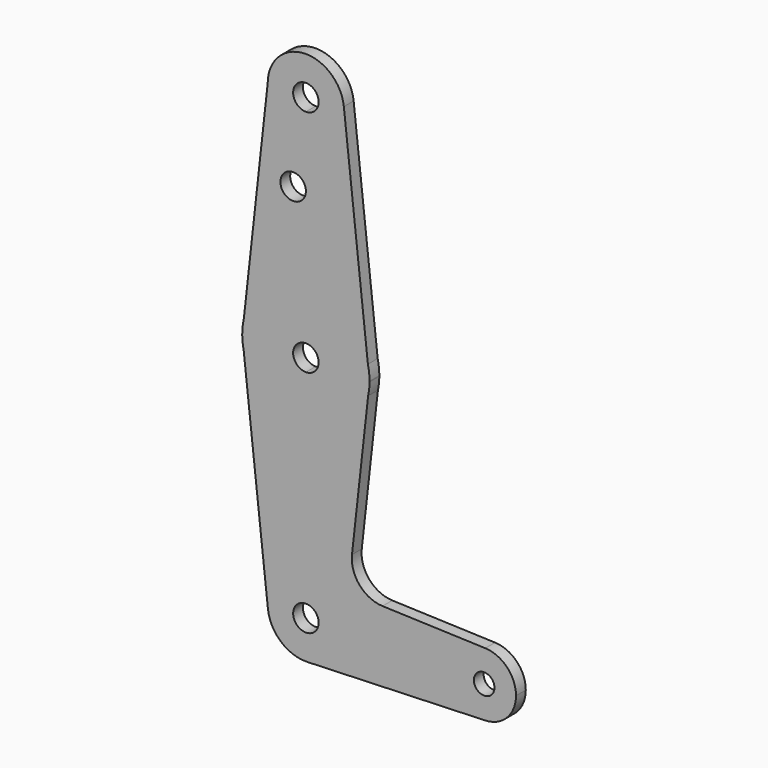
from build123d import *

# Parameters (mm, degrees)
F0_R     = 3.175
F1_DEPTH = 3.048


with BuildPart() as f1:
    # F0 (on Front) → F1 (new body)
    with BuildSketch(Plane.XZ):
        with BuildLine():
            ThreePointArc((-9.525, 114.3), (-6.7351920908, 107.5648079092), (0, 104.775))
            ThreePointArc((0, 104.775), (6.7351920908, 107.5648079092), (9.525, 114.3))
            ThreePointArc((9.525, 114.3), (9.5107674928, 114.8205061938), (9.4681125044, 115.3394568793))
            ThreePointArc((9.4681125044, 115.3394568793), (-0.5205061938, 123.8107674928), (-9.525, 114.3))
        make_face()
        with BuildLine():
            ThreePointArc((3.175, 114.3), (2.2450640303, 112.0549359697), (0, 111.125))
            ThreePointArc((0, 111.125), (-2.2450640303, 116.5450640303), (3.175, 114.3))
        make_face(mode=Mode.SUBTRACT)
        with BuildLine():
            ThreePointArc((9.525, 114.3), (6.7351920908, 107.5648079092), (0, 104.775))
            Line((0, 104.775), (0, 93.6752))
            Line((0, 93.6752), (0, 73.025))
            ThreePointArc((0, 73.025), (9.8701303611, 69.5836700798), (15.4610323849, 60.7516805234))
            Line((15.4610323849, 60.7516805234), (9.4681125044, 115.3394568793))
            ThreePointArc((9.4681125044, 115.3394568793), (9.5107674928, 114.8205061938), (9.525, 114.3))
        make_face()
        with BuildLine():
            Line((0, 93.6752), (0, 104.775))
            ThreePointArc((0, 104.775), (-6.7351920908, 107.5648079092), (-9.525, 114.3))
            Line((-9.525, 114.3), (-15.4594241154, 60.7585774232))
            ThreePointArc((-15.4594241154, 60.7585774232), (-9.8673567486, 69.5858713324), (0, 73.025))
            Line((0, 73.025), (0, 93.6752))
        make_face()
        with Locations((-3.175, 93.6752)):
            Circle(F0_R, mode=Mode.SUBTRACT)
        with BuildLine():
            ThreePointArc((15.4610323849, 60.7516805234), (9.8701303611, 69.5836700798), (0, 73.025))
            Line((0, 73.025), (0, 60.325))
            ThreePointArc((0, 60.325), (2.2450640303, 59.3950640303), (3.175, 57.15))
            ThreePointArc((3.175, 57.15), (2.2450640303, 54.9049359697), (0, 53.975))
            Line((0, 53.975), (0, 41.275))
            ThreePointArc((0, 41.275), (9.976313194, 44.8013644456), (15.5204857712, 53.8138125913))
            Line((15.5204857712, 53.8138125913), (15.8741780433, 56.9884560433))
            Line((15.8741780433, 56.9884560433), (15.4610323849, 60.7516805234))
        make_face()
        with BuildLine():
            Line((0, 60.325), (0, 73.025))
            ThreePointArc((0, 73.025), (-9.8673567486, 69.5858713324), (-15.4594241154, 60.7585774232))
            Line((-15.4594241154, 60.7585774232), (-15.8744208877, 57.0144032424))
            Line((-15.8744208877, 57.0144032424), (-15.5220214937, 53.8209650423))
            ThreePointArc((-15.5220214937, 53.8209650423), (-9.979158157, 44.8036633985), (0, 41.275))
            Line((0, 41.275), (0, 53.975))
            ThreePointArc((0, 53.975), (-3.175, 57.15), (0, 60.325))
        make_face()
        with BuildLine():
            Line((-15.8744208877, 57.0144032424), (-15.4594241154, 60.7585774232))
            ThreePointArc((-15.4594241154, 60.7585774232), (-15.7783766828, 58.8988436912), (-15.8744208877, 57.0144032424))
        make_face()
        with BuildLine():
            ThreePointArc((15.875, 57.15), (15.771168538, 58.962696319), (15.4610323849, 60.7516805234))
            Line((15.4610323849, 60.7516805234), (15.8741780433, 56.9884560433))
            ThreePointArc((15.8741780433, 56.9884560433), (15.8747945095, 57.0692269761), (15.875, 57.15))
        make_face()
        with BuildLine():
            Line((-15.5220214937, 53.8209650423), (-15.8744208877, 57.0144032424))
            ThreePointArc((-15.8744208877, 57.0144032424), (-15.7792160907, 55.4087462666), (-15.5220214937, 53.8209650423))
        make_face()
        with BuildLine():
            ThreePointArc((15.5204857712, 53.8138125913), (15.7773831565, 55.3922156754), (15.8741780433, 56.9884560433))
            Line((15.8741780433, 56.9884560433), (15.5204857712, 53.8138125913))
        make_face()
        with BuildLine():
            ThreePointArc((0, 41.275), (-9.979158157, 44.8036633985), (-15.5220214937, 53.8209650423))
            Line((-15.5220214937, 53.8209650423), (-9.4675296544, -1.04475224))
            ThreePointArc((-9.4675296544, -1.04475224), (-7.0949591291, 6.3550908693), (0, 9.525))
            Line((0, 9.525), (0, 41.275))
        make_face()
        with BuildLine():
            ThreePointArc((15.5204857712, 53.8138125913), (9.976313194, 44.8013644456), (0, 41.275))
            Line((0, 41.275), (0, 9.525))
            ThreePointArc((0, 9.525), (6.7351920908, 6.7351920908), (9.525, 0))
            Line((9.525, 0), (36.5125, 0))
            ThreePointArc((36.5125, 0), (38.9380895153, 5.7116327839), (44.7324052746, 7.9324746146))
            Line((44.7324052746, 7.9324746146), (19.1121060354, 8.8445869115))
            ThreePointArc((19.1121060354, 8.8445869115), (13.3768762455, 11.5947260602), (11.4936496736, 17.6700518752))
            Line((11.4936496736, 17.6700518752), (15.5204857712, 53.8138125913))
        make_face()
        with BuildLine():
            ThreePointArc((0, 9.525), (-7.0949591291, 6.3550908693), (-9.4675296544, -1.04475224))
            ThreePointArc((-9.4675296544, -1.04475224), (-6.2273582272, -7.2073319967), (0.3401867066, -9.5189231536))
            ThreePointArc((0.3401867066, -9.5189231536), (6.8544111118, -6.6138244087), (9.525, 0))
            Line((9.525, 0), (3.175, 0))
            ThreePointArc((3.175, 0), (-2.2450640303, -2.2450640303), (0, 3.175))
            Line((0, 3.175), (0, 9.525))
        make_face()
        with BuildLine():
            ThreePointArc((9.525, 0), (6.8544111118, -6.6138244087), (0.3401867066, -9.5189231536))
            Line((0.3401867066, -9.5189231536), (44.709099749, -7.9332700427))
            ThreePointArc((44.709099749, -7.9332700427), (38.9297055336, -5.7035300695), (36.5125, 0))
            Line((36.5125, 0), (9.525, 0))
        make_face()
        with BuildLine():
            ThreePointArc((36.5125, 0), (38.9297055336, -5.7035300695), (44.709099749, -7.9332700427))
            ThreePointArc((44.709099749, -7.9332700427), (50.1535300695, -5.5202944664), (52.3875, 0))
            ThreePointArc((52.3875, 0), (50.1616327839, 5.5119104847), (44.7324052746, 7.9324746146))
            ThreePointArc((44.7324052746, 7.9324746146), (38.9380895153, 5.7116327839), (36.5125, 0))
        make_face()
        with BuildLine():
            ThreePointArc((47.0180396071, 0), (44.45, -2.5680396071), (41.8819603929, 0))
            ThreePointArc((41.8819603929, 0), (44.45, 2.5680396071), (47.0180396071, 0))
        make_face(mode=Mode.SUBTRACT)
        with BuildLine():
            ThreePointArc((9.525, 0), (6.7351920908, 6.7351920908), (0, 9.525))
            Line((0, 9.525), (0, 3.175))
            ThreePointArc((0, 3.175), (2.2450640303, 2.2450640303), (3.175, 0))
            Line((3.175, 0), (9.525, 0))
        make_face()
    extrude(amount=F1_DEPTH)


solid = f1.part
